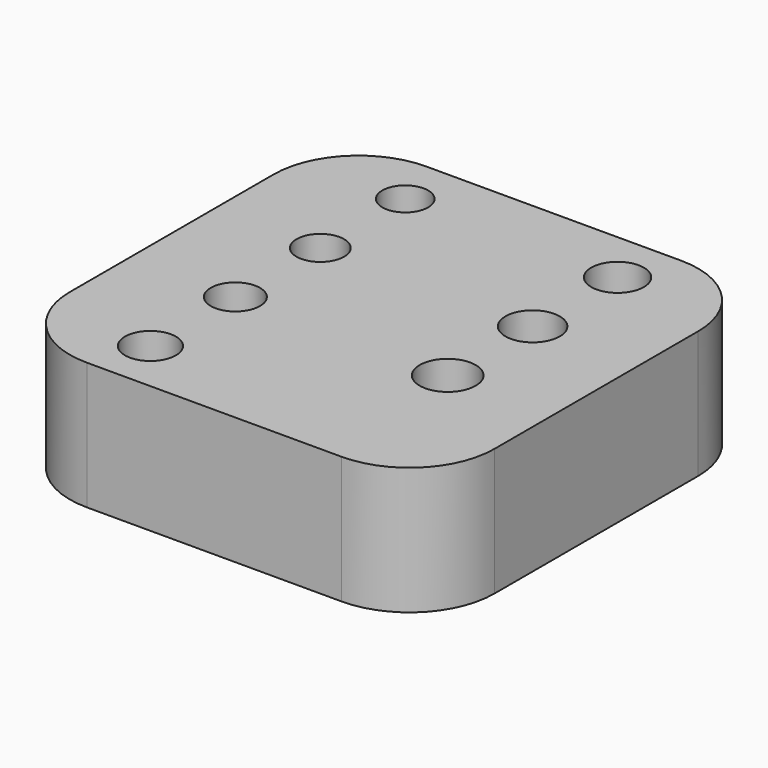
from build123d import *

# Parameters (mm, degrees)
F0_W     = 25
F0_H     = 25
F1_DEPTH = 7.5
F2_R     = 1.35
F2_R_2   = 1.4
F2_R_3   = 1.45
F2_R_4   = 1.5
F2_R_5   = 1.55
F2_R_6   = 1.6
F2_R_7   = 1.65
F3_DEPTH = 7.501
F4_R     = 5


with BuildPart() as f1:
    # F0 (on Top) → F1 (new body)
    with BuildSketch(Plane.XY):
        Rectangle(F0_W, F0_H)
    extrude(amount=F1_DEPTH)

    # F2 (on face) → F3 (cut, through all)
    with BuildSketch(Plane.XY.offset(7.5)):
        with Locations((-6.25, 9.375)):
            Circle(F2_R)
        with Locations((-6.25, 3.125)):
            Circle(F2_R_2)
        with Locations((-6.25, -3.125)):
            Circle(F2_R_3)
        with Locations((-6.25, -9.375)):
            Circle(F2_R_4)
        with Locations((6.25, 9.375)):
            Circle(F2_R_5)
        with Locations((6.25, 3.125)):
            Circle(F2_R_6)
        with Locations((6.25, -3.125)):
            Circle(F2_R_7)
    extrude(amount=-F3_DEPTH, mode=Mode.SUBTRACT)

    # F4
    f4_edges = [f1.edges().sort_by_distance(p)[0] for p in [
        (-12.5, 12.5, 3.75),
        (-12.5, -12.5, 3.75),
        (12.5, -12.5, 3.75),
        (12.5, 12.5, 3.75),
    ]]
    fillet(f4_edges, radius=F4_R)


solid = f1.part
